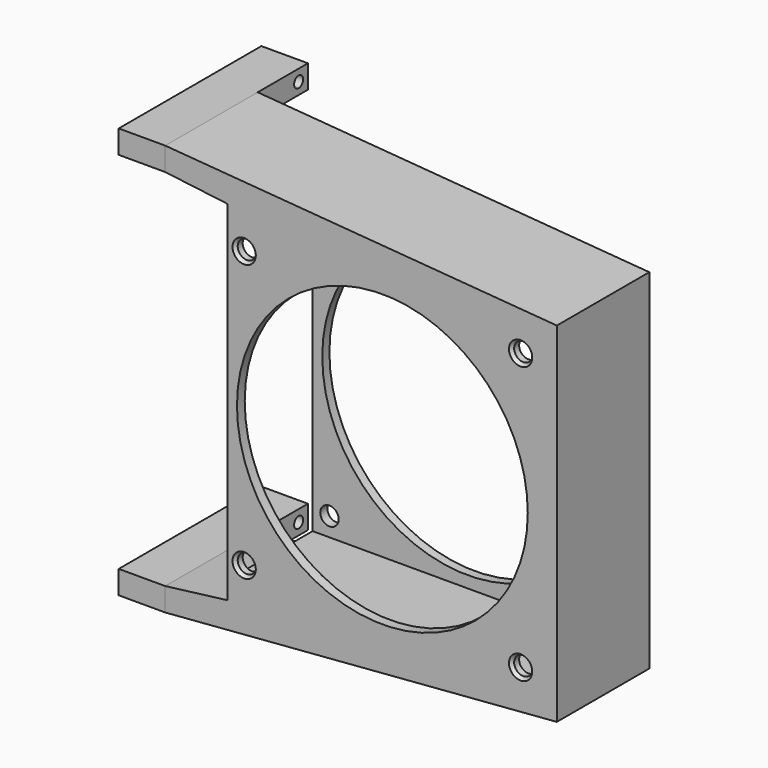
from build123d import *

# Parameters (mm, degrees)
F0_W            = 12
F0_H            = 6
F1_DEPTH        = 46
F3_D            = 2.9
F3_DEPTH        = 12
F3_TIP          = 0.8712478976
F5_D            = 2.9
F5_DEPTH        = 12
F5_TIP          = 0.8712478976
F6_START        = 16.2
F0_W_2          = 80
F0_H_2          = 80
F0_R            = 37.5
F6_DEPTH        = 29.8
F7_W            = 25
F7_H            = 81
F8_DEPTH        = 82.5
F10_D           = 4.75
F10_DEPTH       = 30
F10_CSINK_D     = 6
F10_CSINK_ANGLE = 70
F10_TIP         = 1.4270439702


with BuildPart() as f1:
    # F0 (on Front) → F1 (new body)
    with BuildSketch(Plane.XZ):
        with Locations((-62, 50)):
            Rectangle(F0_W, F0_H)
    extrude(amount=F1_DEPTH)

    # F3
    with Locations(Plane(origin=(-68, 0, 0), x_dir=(0, -1, 0), z_dir=(-1, 0, 0))):
        with Locations((3, 50)):
            Hole(F3_D / 2, depth=F3_DEPTH)
            with Locations((0, 0, -(F3_DEPTH + F3_TIP / 2))):  # 118° drill point
                Cone(0, F3_D / 2, F3_TIP, mode=Mode.SUBTRACT)


with BuildPart() as f1b:
    # F0 (on Front) → F1, piece 2 (new body)
    with BuildSketch(Plane.XZ):
        with Locations((-62, -50)):
            Rectangle(F0_W, F0_H)
    extrude(amount=F1_DEPTH)

    # F5
    with Locations(Plane(origin=(-68, 0, 0), x_dir=(0, -1, 0), z_dir=(-1, 0, 0))):
        with Locations((3, -50)):
            Hole(F5_D / 2, depth=F5_DEPTH)
            with Locations((0, 0, -(F5_DEPTH + F5_TIP / 2))):  # 118° drill point
                Cone(0, F5_D / 2, F5_TIP, mode=Mode.SUBTRACT)


with BuildPart() as f6:
    # F0 (on Front) → F6 (new body)
    with BuildSketch(Plane.XZ.offset(F6_START)):
        Polygon((-56, 47), (-40, 45), (45, 45), (-56, 53), align=None)
        Polygon((-40, 45), (-40, 40), (40, 40), (40, -40), (-40, -40), (-40, -45), (45, -45), (45, 45), align=None)
        Rectangle(F0_W_2, F0_H_2)
        Circle(F0_R, mode=Mode.SUBTRACT)
        Polygon((45, -45), (-40, -45), (-56, -47), (-56, -53), align=None)
    extrude(amount=F6_DEPTH)

    # F7 (on face) → F8 (cut)
    with BuildSketch(Plane(origin=(-40, 0, 0), x_dir=(0, -1, 0), z_dir=(-1, 0, 0))):
        with Locations((31, 0)):
            Rectangle(F7_W, F7_H)
    extrude(amount=-F8_DEPTH, mode=Mode.SUBTRACT)

    # F10
    with Locations(Plane.XZ.offset(46)):
        with Locations((35.65, 35.65), (35.65, -35.65), (-35.65, -35.65), (-35.65, 35.65)):
            CounterSinkHole(F10_D / 2, F10_CSINK_D / 2, depth=F10_DEPTH, counter_sink_angle=F10_CSINK_ANGLE)
            with Locations((0, 0, -(F10_DEPTH + F10_TIP / 2))):  # 118° drill point
                Cone(0, F10_D / 2, F10_TIP, mode=Mode.SUBTRACT)


solid = Compound([f1.part, f1b.part, f6.part])
